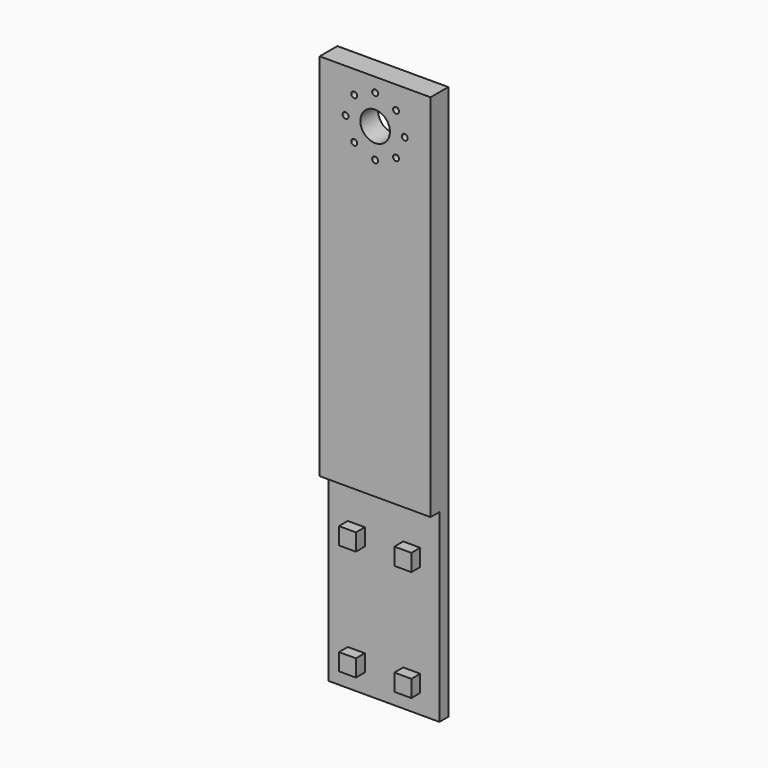
from build123d import *

# Parameters (mm, degrees)
F0_W     = 30
F0_H     = 6
F1_DEPTH = 150
F2_R     = 0.8
F2_R_2   = 4
F3_DEPTH = 6
F4_W     = 3
F4_H     = 50
F5_DEPTH = 30
F6_W     = 4.604
F6_H     = 4.608
F6_W_2   = 4.599998
F6_H_2   = 4.599998
F6_W_3   = 4.591
F6_H_3   = 4.59
F6_W_4   = 4.592
F6_H_4   = 4.592
F7_DEPTH = 3


with BuildPart() as f1:
    # F0 (on Top) → F1 (new body)
    with BuildSketch(Plane.XY):
        Rectangle(F0_W, F0_H)
    extrude(amount=F1_DEPTH)

    # F2 (on face) → F3 (cut, through all)
    with BuildSketch(Plane.XZ.offset(3)):
        with Locations((0, 146.2)):
            Circle(F2_R)
        with Locations((0, 138.2)):
            Circle(F2_R_2)
        with Locations((-5.656854, 143.856854)):
            Circle(F2_R)
        with Locations((-8, 138.2)):
            Circle(F2_R)
        with Locations((-5.656854, 132.543146)):
            Circle(F2_R)
        with Locations((0, 130.2)):
            Circle(F2_R)
        with Locations((5.656854, 132.543146)):
            Circle(F2_R)
        with Locations((8, 138.2)):
            Circle(F2_R)
        with Locations((5.656854, 143.856854)):
            Circle(F2_R)
    extrude(amount=-F3_DEPTH, mode=Mode.SUBTRACT)

    # F4 (on face) → F5 (cut, through all)
    with BuildSketch(Plane(origin=(-15, 0, 0), x_dir=(0, -1, 0), z_dir=(-1, 0, 0))):
        with Locations((1.5, 25)):
            Rectangle(F4_W, F4_H)
    extrude(amount=-F5_DEPTH, mode=Mode.SUBTRACT)

    # F6 (on face) → F7 (join)
    with BuildSketch(Plane.XZ):
        with Locations((-7.502, 37.5)):
            Rectangle(F6_W, F6_H)
        with Locations((7.5, 37.5)):
            Rectangle(F6_W_2, F6_H_2)
        with Locations((-7.4995, 7.5)):
            Rectangle(F6_W_3, F6_H_3)
        with Locations((7.5, 7.5)):
            Rectangle(F6_W_4, F6_H_4)
    extrude(amount=F7_DEPTH)


solid = f1.part
